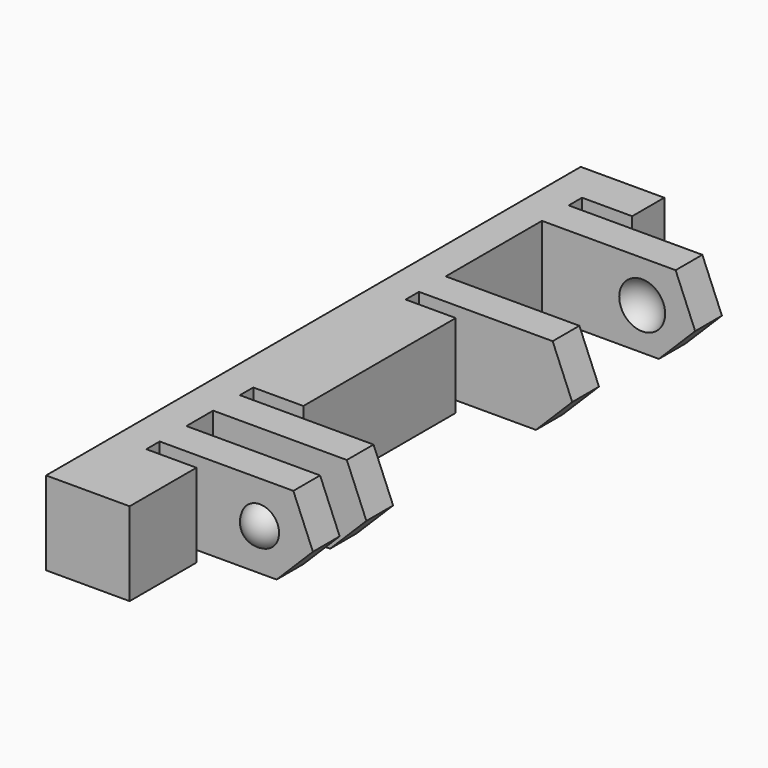
from build123d import *

# Parameters (mm, degrees)
BOX032_W               = 12
BOX032_H               = 44
BOX032_DEPTH           = 10
BOX027_W               = 4
BOX027_H               = 1
BOX027_DEPTH           = 7
BOX035_W               = 4
BOX035_H               = 1
BOX035_DEPTH           = 7
BOX036_W               = 4
BOX036_H               = 2
BOX036_DEPTH           = 7
BOX038_W               = 4
BOX038_H               = 1
BOX038_DEPTH           = 7
BOX030_W               = 4
BOX030_H               = 1
BOX030_DEPTH           = 7
BOX029_W               = 4
BOX029_H               = 7.2
BOX029_DEPTH           = 7
BOX028_W               = 13
BOX028_H               = 40
BOX028_DEPTH           = 10
BOX028_PITCH_ANGLE     = -45
BOX031_W               = 10
BOX031_H               = 2
BOX031_DEPTH           = 7
BOX034_W               = 10
BOX034_H               = 2
BOX034_DEPTH           = 7
BOX033_W               = 10
BOX033_H               = 2
BOX033_DEPTH           = 7
BOX037_W               = 10
BOX037_H               = 2
BOX037_DEPTH           = 7
BOX039_W               = 5
BOX039_H               = 40
BOX039_DEPTH           = 7
CHAMFER003_SIZE        = 4
CUT010_PLACEMENT_ANGLE = 180
CUT009_PLACEMENT_ANGLE = 180


with BuildPart() as cube032:
    # Box032 → Box032 (new body)
    with BuildSketch(Plane(origin=(-11, -2, -12), x_dir=(1, 0, 0), z_dir=(0, 0, 1))):
        with Locations((6, 22)):
            Rectangle(BOX032_W, BOX032_H)
    extrude(amount=BOX032_DEPTH)


with BuildPart() as cube027:
    # Box027 → Box027 (new body)
    with BuildSketch(Plane(origin=(-1, 12, 0), x_dir=(1, 0, 0), z_dir=(0, 0, 1))):
        with Locations((2, 0.5)):
            Rectangle(BOX027_W, BOX027_H)
    extrude(amount=BOX027_DEPTH)


with BuildPart() as cube035:
    # Box035 → Box035 (new body)
    with BuildSketch(Plane(origin=(-1, 36.6, 0), x_dir=(1, 0, 0), z_dir=(0, 0, 1))):
        with Locations((2, 0.5)):
            Rectangle(BOX035_W, BOX035_H)
    extrude(amount=BOX035_DEPTH)


with BuildPart() as cube036:
    # Box036 → Box036 (new body)
    with BuildSketch(Plane(origin=(-1, 8, 0), x_dir=(1, 0, 0), z_dir=(0, 0, 1))):
        with Locations((2, 1)):
            Rectangle(BOX036_W, BOX036_H)
    extrude(amount=BOX036_DEPTH)


with BuildPart() as cube038:
    # Box038 → Box038 (new body)
    with BuildSketch(Plane(origin=(-1, 24.4, 0), x_dir=(1, 0, 0), z_dir=(0, 0, 1))):
        with Locations((2, 0.5)):
            Rectangle(BOX038_W, BOX038_H)
    extrude(amount=BOX038_DEPTH)


with BuildPart() as cube030:
    # Box030 → Box030 (new body)
    with BuildSketch(Plane(origin=(-1, 5, 0), x_dir=(1, 0, 0), z_dir=(0, 0, 1))):
        with Locations((2, 0.5)):
            Rectangle(BOX030_W, BOX030_H)
    extrude(amount=BOX030_DEPTH)


with BuildPart() as fusion009:
    # Box029 → Box029 (new body)
    with BuildSketch(Plane(origin=(-1, 27.4, 0), x_dir=(1, 0, 0), z_dir=(0, 0, 1))):
        with Locations((2, 3.6)):
            Rectangle(BOX029_W, BOX029_H)
    extrude(amount=BOX029_DEPTH)

    # Fusion009: union Cube027, Cube035, Cube036, Cube038, Cube030
    add(cube027.part)
    add(cube035.part)
    add(cube036.part)
    add(cube038.part)
    add(cube030.part)


with BuildPart() as sphere017:
    # Sphere017 → Sphere017 (revolve)
    with BuildSketch(Plane(origin=(-3, 28, 2.5), x_dir=(1, 0, 0), z_dir=(0, -1, 0))):
        with BuildLine():
            ThreePointArc((0, -1.5), (1.5, 0), (0, 1.5))
            Line((0, 1.5), (0, -1.5))
        make_face()
    revolve(axis=Axis((-3, 28, 2.5), (0, 0, 1)))


with BuildPart() as fusion011:
    # Sphere019 → Sphere019 (revolve)
    with BuildSketch(Plane(origin=(-3, 34, 2.5), x_dir=(1, 0, 0), z_dir=(0, -1, 0))):
        with BuildLine():
            ThreePointArc((0, -1.5), (1.5, 0), (0, 1.5))
            Line((0, 1.5), (0, -1.5))
        make_face()
    revolve(axis=Axis((-3, 34, 2.5), (0, 0, 1)))

    # Fusion011: union Sphere017
    add(sphere017.part)


with BuildPart() as sphere018:
    # Sphere018 → Sphere018 (revolve)
    with BuildSketch(Plane(origin=(-3, 11.5, 2.5), x_dir=(1, 0, 0), z_dir=(0, -1, 0))):
        with BuildLine():
            ThreePointArc((0, -1.25), (1.25, 0), (0, 1.25))
            Line((0, 1.25), (0, -1.25))
        make_face()
    revolve(axis=Axis((-3, 11.5, 2.5), (0, 0, 1)))


with BuildPart() as cube028:
    # Box028 → Box028 (new body)
    with BuildSketch(Plane.XY):
        with Locations((6.5, 20)):
            Rectangle(BOX028_W, BOX028_H)
    extrude(amount=BOX028_DEPTH)


with BuildPart() as cube028_1:
    # Box028 pitch: moved
    add(cube028.part.rotate(Axis((0, 0, 0), (0, 1, 0)), BOX028_PITCH_ANGLE))


with BuildPart() as cube028_2:
    # Box028 placement: moved
    add(cube028_1.part.moved(Location((-10.19, 0, -1.19))))


with BuildPart() as cube031:
    # Box031 → Box031 (new body)
    with BuildSketch(Plane(origin=(-10, 6, 0), x_dir=(1, 0, 0), z_dir=(0, 0, 1))):
        with Locations((5, 1)):
            Rectangle(BOX031_W, BOX031_H)
    extrude(amount=BOX031_DEPTH)


with BuildPart() as cube034:
    # Box034 → Box034 (new body)
    with BuildSketch(Plane(origin=(-10, 10, 0), x_dir=(1, 0, 0), z_dir=(0, 0, 1))):
        with Locations((5, 1)):
            Rectangle(BOX034_W, BOX034_H)
    extrude(amount=BOX034_DEPTH)


with BuildPart() as cube033:
    # Box033 → Box033 (new body)
    with BuildSketch(Plane(origin=(-10, 25.4, 0), x_dir=(1, 0, 0), z_dir=(0, 0, 1))):
        with Locations((5, 1)):
            Rectangle(BOX033_W, BOX033_H)
    extrude(amount=BOX033_DEPTH)


with BuildPart() as cube037:
    # Box037 → Box037 (new body)
    with BuildSketch(Plane(origin=(-10, 34.6, 0), x_dir=(1, 0, 0), z_dir=(0, 0, 1))):
        with Locations((5, 1)):
            Rectangle(BOX037_W, BOX037_H)
    extrude(amount=BOX037_DEPTH)


with BuildPart() as cut011:
    # Box039 → Box039 (new body)
    with BuildSketch(Plane.XY):
        with Locations((2.5, 20)):
            Rectangle(BOX039_W, BOX039_H)
    extrude(amount=BOX039_DEPTH)

    # Fusion012: union Cube031, Cube034, Cube033, Cube037
    add(cube031.part)
    add(cube034.part)
    add(cube033.part)
    add(cube037.part)

    # Cut011: cut Cube028
    add(cube028_2.part, mode=Mode.SUBTRACT)


with BuildPart() as cut009:
    # Sphere016 → Sphere016 (revolve)
    with BuildSketch(Plane(origin=(-3, 6.5, 2.5), x_dir=(1, 0, 0), z_dir=(0, -1, 0))):
        with BuildLine():
            ThreePointArc((0, -1.25), (1.25, 0), (0, 1.25))
            Line((0, 1.25), (0, -1.25))
        make_face()
    revolve(axis=Axis((-3, 6.5, 2.5), (0, 0, 1)))

    # Fusion010: union Sphere018, Cut011
    add(sphere018.part)
    add(cut011.part)

    # Cut012: cut Fusion011
    add(fusion011.part, mode=Mode.SUBTRACT)

    # Chamfer003
    chamfer003_edges = [cut009.edges().sort_by_distance(p)[0] for p in [
        (-9, 7, 0),
        (-9, 11, 0),
        (-9, 35.6, 0),
        (-9, 26.4, 0),
    ]]
    chamfer(chamfer003_edges, length=CHAMFER003_SIZE)

    # Cut010: cut Fusion009
    add(fusion009.part, mode=Mode.SUBTRACT)


with BuildPart() as cut009_1:
    # Cut010 placement: moved
    add(cut009.part.moved(Location((-5, 40, 3))).rotate(Axis((-5, 40, 3), (1, 0, 0)), CUT010_PLACEMENT_ANGLE))

    # Cut009: cut Cube032
    add(cube032.part, mode=Mode.SUBTRACT)


with BuildPart() as cut009_2:
    # Cut009 placement: moved
    add(cut009_1.part.moved(Location((40, 40, 0))).rotate(Axis((40, 40, 0), (0, 0, 1)), CUT009_PLACEMENT_ANGLE))


solid = cut009_2.part
